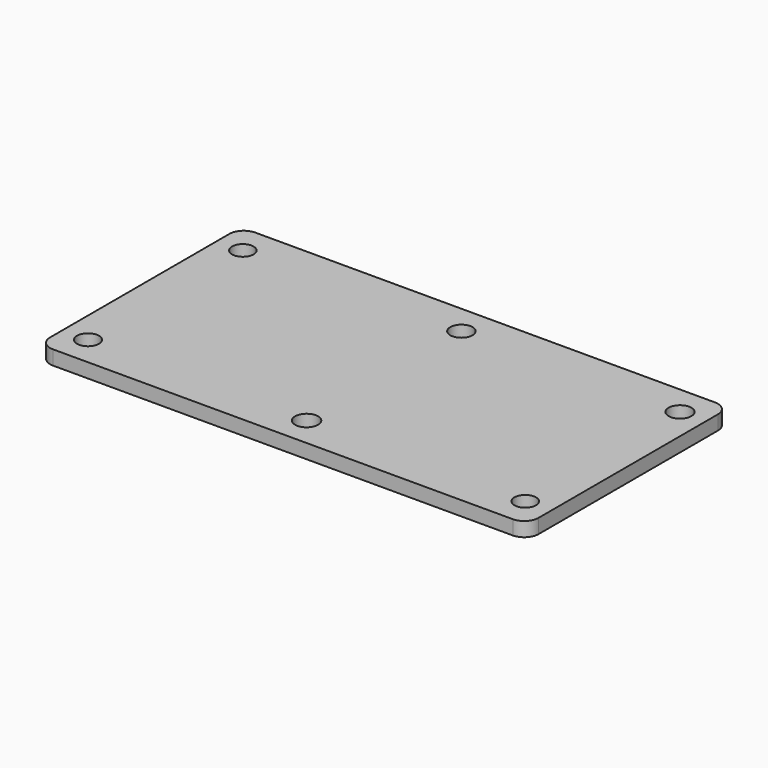
from build123d import *

# Parameters (mm, degrees)
F0_R     = 4.867648
F0_R_2   = 5.105565
F0_R_3   = 4.788046
F0_R_4   = 4.770591
F0_R_5   = 5.049327
F1_DEPTH = 6.35
F2_R     = 4.925574
F3_DEPTH = 25.4


with BuildPart() as f1:
    # F0 (on Top) → F1 (new body)
    with BuildSketch(Plane.XY):
        with BuildLine():
            Line((134.823743, 51.212785), (-68.884257, 51.212785))
            ThreePointArc((-68.884257, 51.212785), (-73.374385, 49.352913), (-75.234257, 44.862785))
            Line((-75.234257, 44.862785), (-75.234257, -54.451215))
            ThreePointArc((-75.234257, -54.451215), (-73.374385, -58.941343), (-68.884257, -60.801215))
            Line((-68.884257, -60.801215), (134.823743, -60.801215))
            ThreePointArc((134.823743, -60.801215), (139.313871, -58.941343), (141.173743, -54.451215))
            Line((141.173743, -54.451215), (141.173743, 44.862785))
            ThreePointArc((141.173743, 44.862785), (139.313871, 49.352913), (134.823743, 51.212785))
        make_face()
        with Locations((-63.880457, -47.656715)):
            Circle(F0_R, mode=Mode.SUBTRACT)
        with Locations((32.969743, -47.656715)):
            Circle(F0_R_2, mode=Mode.SUBTRACT)
        with Locations((129.819943, -47.656715)):
            Circle(F0_R_3, mode=Mode.SUBTRACT)
        with Locations((-63.880457, 38.068285)):
            Circle(F0_R_4, mode=Mode.SUBTRACT)
        with Locations((129.819943, 38.068285)):
            Circle(F0_R_5, mode=Mode.SUBTRACT)
    extrude(amount=F1_DEPTH)

    # F2 (on face) → F3 (cut)
    with BuildSketch(Plane.XY.offset(6.35)):
        with Locations((32.969743, 38.068285)):
            Circle(F2_R)
    extrude(amount=-F3_DEPTH, mode=Mode.SUBTRACT)


solid = f1.part
